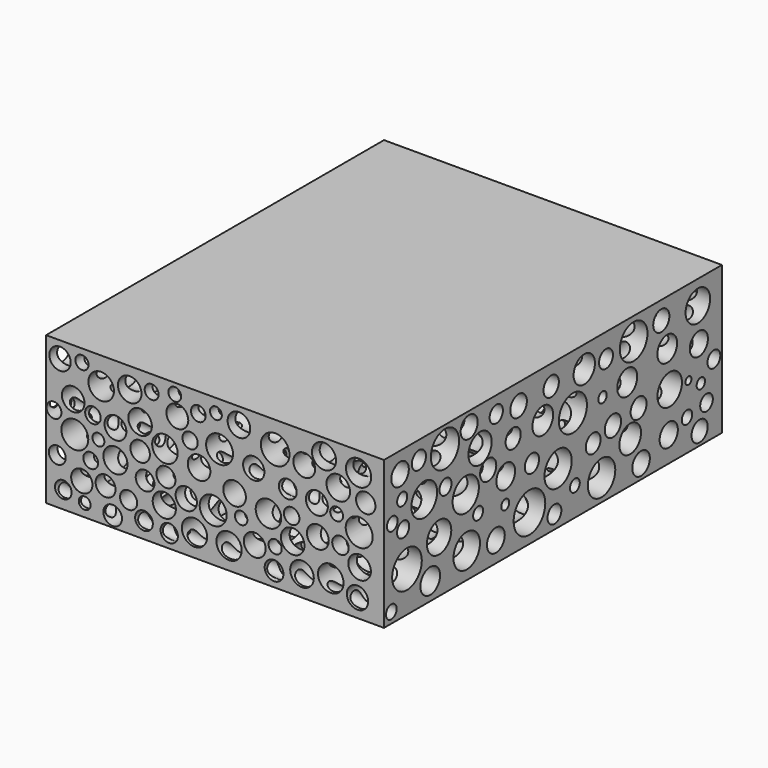
from build123d import *

# Parameters (mm, degrees)
F0_W     = 101.6
F0_H     = 44.45
F1_DEPTH = 63.5
F2_R     = 3.283669
F2_R_2   = 4.839959
F2_R_3   = 4.380411
F2_R_4   = 4.931619
F2_R_5   = 5.314886
F2_R_6   = 5.568121
F2_R_7   = 3.111289
F2_R_8   = 3.521588
F2_R_9   = 3.897683
F2_R_10  = 2.833121
F2_R_11  = 1.865296
F2_R_12  = 4.584079
F2_R_13  = 4.987188
F2_R_14  = 5.120112
F2_R_15  = 1.496387
F2_R_16  = 5.942226
F2_R_17  = 4.015226
F2_R_18  = 2.881347
F2_R_19  = 5.275854
F2_R_20  = 5.200225
F2_R_21  = 1.574901
F2_R_22  = 2.624836
F2_R_23  = 2.784059
F2_R_24  = 1.837385
F2_R_25  = 2.676818
F2_R_26  = 3.346021
F2_R_27  = 4.595336
F2_R_28  = 3.758193
F2_R_29  = 4.074842
F2_R_30  = 3.712078
F2_R_31  = 3.044131
F2_R_32  = 3.422366
F2_R_33  = 2.992773
F2_R_34  = 4.610307
F2_R_35  = 3.407239
F2_R_36  = 1.574907
F2_R_37  = 1.128985
F2_R_38  = 1.937761
F2_R_39  = 3.304585
F2_R_40  = 5.160322
F2_R_41  = 3.072291
F2_R_42  = 2.003585
F2_R_43  = 2.652111
F2_R_44  = 1.888999
F2_R_45  = 2.291188
F2_R_46  = 3.70463
F2_R_47  = 2.599848
F2_R_48  = 2.492038
F2_R_49  = 3.197595
F2_R_50  = 2.261039
F2_R_51  = 2.003587
F2_R_52  = 3.038026
F2_R_53  = 2.372121
F2_R_54  = 2.40801
F2_R_55  = 3.038023
F3_DEPTH = 101.601
F4_R     = 3.204159
F4_R_2   = 3.838327
F4_R_3   = 3.402028
F4_R_4   = 4.046783
F4_R_5   = 3.28805
F4_R_6   = 3.543184
F4_R_7   = 3.622987
F4_R_8   = 2.938143
F4_R_9   = 2.988686
F4_R_10  = 2.810234
F4_R_11  = 2.583013
F4_R_12  = 2.524361
F4_R_13  = 3.481155
F4_R_14  = 2.864738
F4_R_15  = 2.201677
F4_R_16  = 2.100393
F4_R_17  = 3.402026
F4_R_18  = 4.303264
F4_R_19  = 2.686372
F4_R_20  = 2.333773
F4_R_21  = 3.30045
F4_R_22  = 3.275603
F4_R_23  = 3.619227
F4_R_24  = 3.543185
F4_R_25  = 3.799103
F4_R_26  = 2.919547
F4_R_27  = 1.881549
F4_R_28  = 3.809843
F4_R_29  = 3.799108
F4_R_30  = 2.66091
F4_R_31  = 2.609235
F4_R_32  = 2.805384
F4_R_33  = 2.497246
F4_R_34  = 1.784992
F4_R_35  = 2.220154
F4_R_36  = 2.333772
F4_R_37  = 2.824733
F4_R_38  = 1.98027
F4_R_39  = 2.298498
F4_R_40  = 3.204157
F4_R_41  = 2.480833
F4_R_42  = 1.93154
F4_R_43  = 2.244549
F4_R_44  = 1.987134
F4_R_45  = 1.784991
F4_R_46  = 1.931541
F5_DEPTH = 127.001


with BuildPart() as f1:
    # F0 (on Front) → F1 (new body, symmetric)
    with BuildSketch(Plane.XZ):
        with Locations((3.154611, 1.270363)):
            Rectangle(F0_W, F0_H)
    extrude(amount=F1_DEPTH, both=True)

    # F2 (on face) → F3 (cut, through all)
    with BuildSketch(Plane.YZ.offset(53.954611)):
        with Locations((-57.462465, 17.279031)):
            Circle(F2_R)
        with Locations((-48.367873, 6.885211)):
            Circle(F2_R_2)
        with Locations((-27.394628, 11.896517)):
            Circle(F2_R_3)
        with Locations((-32.777142, 1.873904)):
            Circle(F2_R_4)
        with Locations((-40.572505, 17.093426)):
            Circle(F2_R_5)
        with Locations((-54.864012, -8.891124)):
            Circle(F2_R_6)
        with Locations((-12.917521, 17.279031)):
            Circle(F2_R_7)
        with Locations((-17.743224, 0.574677)):
            Circle(F2_R_8)
        with Locations((-3.822928, 9.669269)):
            Circle(F2_R_9)
        with Locations((-14.959165, 9.483665)):
            Circle(F2_R_10)
        with Locations((-28.137043, -4.993442)):
            Circle(F2_R_11)
        with Locations((-42.799752, -5.364649)):
            Circle(F2_R_12)
        with Locations((-32.405935, -13.160015)):
            Circle(F2_R_13)
        with Locations((1.930793, -5.364649)):
            Circle(F2_R_14)
        with Locations((-17.928828, -6.849481)):
            Circle(F2_R_15)
        with Locations((-8.834234, -12.603202)):
            Circle(F2_R_16)
        with Locations((11.767801, 16.907822)):
            Circle(F2_R_17)
        with Locations((-0.667662, 17.464634)):
            Circle(F2_R_18)
        with Locations((7.498912, 7.070814)):
            Circle(F2_R_19)
        with Locations((30.328194, 16.722219)):
            Circle(F2_R_20)
        with Locations((18.635148, 6.699606)):
            Circle(F2_R_21)
        with Locations((19.934377, 16.351011)):
            Circle(F2_R_22)
        with Locations((15.108671, -4.065422)):
            Circle(F2_R_23)
        with Locations((8.241327, -12.417599)):
            Circle(F2_R_24)
        with Locations((-7.906215, 0.017865)):
            Circle(F2_R_25)
        with Locations((-21.455303, -14.83045)):
            Circle(F2_R_26)
        with Locations((43.877281, -1.466967)):
            Circle(F2_R_27)
        with Locations((27.915344, 6.885211)):
            Circle(F2_R_28)
        with Locations((29.028967, -8.519916)):
            Circle(F2_R_29)
        with Locations((42.949263, 9.669269)):
            Circle(F2_R_30)
        with Locations((40.722016, 18.021446)):
            Circle(F2_R_31)
        with Locations((43.506075, -13.345618)):
            Circle(F2_R_32)
        with Locations((32.184236, -1.652571)):
            Circle(F2_R_33)
        with Locations((54.456703, 16.351011)):
            Circle(F2_R_34)
        with Locations((54.82791, 6.142795)):
            Circle(F2_R_35)
        with Locations((55.570334, -4.622234)):
            Circle(F2_R_36)
        with Locations((50.930228, -2.023779)):
            Circle(F2_R_37)
        with Locations((50.373416, -11.489579)):
            Circle(F2_R_38)
        with Locations((33.112254, -16.686488)):
            Circle(F2_R_39)
        with Locations((18.263942, -14.459241)):
            Circle(F2_R_40)
        with Locations((22.53283, -2.394986)):
            Circle(F2_R_41)
        with Locations((-60.385492, 5.345458)):
            Circle(F2_R_42)
        with Locations((-50.382987, 18.126436)):
            Circle(F2_R_43)
        with Locations((-56.680858, 10.346711)):
            Circle(F2_R_44)
        with Locations((-56.310397, 2.196521)):
            Circle(F2_R_45)
        with Locations((-46.122659, -15.585709)):
            Circle(F2_R_46)
        with Locations((0.555696, -16.88233)):
            Circle(F2_R_47)
        with Locations((-21.301631, 18.496899)):
            Circle(F2_R_48)
        with Locations((-31.489369, 19.237826)):
            Circle(F2_R_49)
        with Locations((-40.380482, 7.012542)):
            Circle(F2_R_50)
        with Locations((-60.755957, -17.808488)):
            Circle(F2_R_51)
        with Locations((55.115107, -17.067563)):
            Circle(F2_R_52)
        with Locations((57.708349, -10.584458)):
            Circle(F2_R_53)
        with Locations((60.486823, -0.21149)):
            Circle(F2_R_54)
        with Locations((-24.349233, 4.974994)):
            Circle(F2_R_55)
    extrude(amount=-F3_DEPTH, mode=Mode.SUBTRACT)

    # F4 (on face) → F5 (cut, through all)
    with BuildSketch(Plane.XZ.offset(63.5)):
        with Locations((-43.459196, 18.616183)):
            Circle(F4_R)
        with Locations((-31.0825, 15.315732)):
            Circle(F4_R_2)
        with Locations((-39.498653, 9.209897)):
            Circle(F4_R_3)
        with Locations((-39.003585, 0)):
            Circle(F4_R_4)
        with Locations((-26.791913, 5.744423)):
            Circle(F4_R_5)
        with Locations((-22.501327, 17.296003)):
            Circle(F4_R_6)
        with Locations((-5.498105, -6.058995)):
            Circle(F4_R)
        with Locations((-11.915979, 5.026422)):
            Circle(F4_R_2)
        with Locations((-1.647383, 3.39278)):
            Circle(F4_R_3)
        with Locations((4.514932, 10.255227)):
            Circle(F4_R_4)
        with Locations((-8.181944, 14.828262)):
            Circle(F4_R_5)
        with Locations((-19.384048, 9.693964)):
            Circle(F4_R_6)
        with Locations((14.793774, 8.549807)):
            Circle(F4_R)
        with Locations((37.953694, -13.059816)):
            Circle(F4_R_2)
        with Locations((46.611887, -7.302339)):
            Circle(F4_R_3)
        with Locations((46.492882, 1.920087)):
            Circle(F4_R_4)
        with Locations((34.057071, -3.321468)):
            Circle(F4_R_5)
        with Locations((29.298891, -14.688431)):
            Circle(F4_R_6)
        with Locations((-36.904444, -11.61721)):
            Circle(F4_R)
        with Locations((19.222801, -1.997307)):
            Circle(F4_R_2)
        with Locations((9.029383, 0.05381)):
            Circle(F4_R_3)
        with Locations((2.592292, -6.551579)):
            Circle(F4_R_4)
        with Locations((15.092078, -11.638687)):
            Circle(F4_R_5)
        with Locations((26.494276, -6.965571)):
            Circle(F4_R_6)
        with Locations((-26.791913, -2.83675)):
            Circle(F4_R_7)
        with Locations((-19.365899, 1.948904)):
            Circle(F4_R_8)
        with Locations((-29.76232, -10.592811)):
            Circle(F4_R_9)
        with Locations((-17.880695, -5.312089)):
            Circle(F4_R_10)
        with Locations((-22.831373, -12.078013)):
            Circle(F4_R_11)
        with Locations((-44.284306, -7.127337)):
            Circle(F4_R_12)
        with Locations((-12.104905, -9.932721)):
            Circle(F4_R_13)
        with Locations((-11.609837, -2.341683)):
            Circle(F4_R_14)
        with Locations((-1.873507, 17.626047)):
            Circle(F4_R_15)
        with Locations((-15.900424, 18.781206)):
            Circle(F4_R_16)
        with Locations((10.338166, 18.616183)):
            Circle(F4_R_17)
        with Locations((21.229653, 15.645778)):
            Circle(F4_R_18)
        with Locations((25.025174, 6.404513)):
            Circle(F4_R_19)
        with Locations((26.180331, -0.361412)):
            Circle(F4_R_20)
        with Locations((33.77137, 5.579401)):
            Circle(F4_R_21)
        with Locations((29.97585, 14.325596)):
            Circle(F4_R_22)
        with Locations((35.91666, 18.616183)):
            Circle(F4_R_23)
        with Locations((40.207248, 11.685236)):
            Circle(F4_R_24)
        with Locations((46.313088, 17.626047)):
            Circle(F4_R_25)
        with Locations((48.458379, 10.365055)):
            Circle(F4_R_26)
        with Locations((10.998256, -5.807157)):
            Circle(F4_R_27)
        with Locations((-3.028665, -14.223307)):
            Circle(F4_R_28)
        with Locations((7.367757, -14.388329)):
            Circle(F4_R_29)
        with Locations((-18.210741, -16.038556)):
            Circle(F4_R_30)
        with Locations((-10.619703, -16.863668)):
            Circle(F4_R_31)
        with Locations((-27.617026, -17.688781)):
            Circle(F4_R_32)
        with Locations((-42.469058, -15.70851)):
            Circle(F4_R_33)
        with Locations((-36.033176, -17.193714)):
            Circle(F4_R_34)
        with Locations((-34.217931, -5.312089)):
            Circle(F4_R_35)
        with Locations((-33.55784, 6.899581)):
            Circle(F4_R_36)
        with Locations((-31.907614, 0.958769)):
            Circle(F4_R_34)
        with Locations((20.899607, -16.533624)):
            Circle(F4_R_37)
        with Locations((21.229653, -10.097743)):
            Circle(F4_R_38)
        with Locations((-4.348845, 9.704965)):
            Circle(F4_R_39)
        with Locations((45.983043, -15.543488)):
            Circle(F4_R_40)
        with Locations((40.867336, -3.331818)):
            Circle(F4_R_41)
        with Locations((39.712179, 4.589265)):
            Circle(F4_R_42)
        with Locations((-45.27444, 4.424243)):
            Circle(F4_R_43)
        with Locations((-36.85829, 19.771341)):
            Circle(F4_R_44)
        with Locations((3.407216, 19.441297)):
            Circle(F4_R_45)
        with Locations((-8.969477, 20.431433)):
            Circle(F4_R_46)
    extrude(amount=-F5_DEPTH, mode=Mode.SUBTRACT)


solid = f1.part
